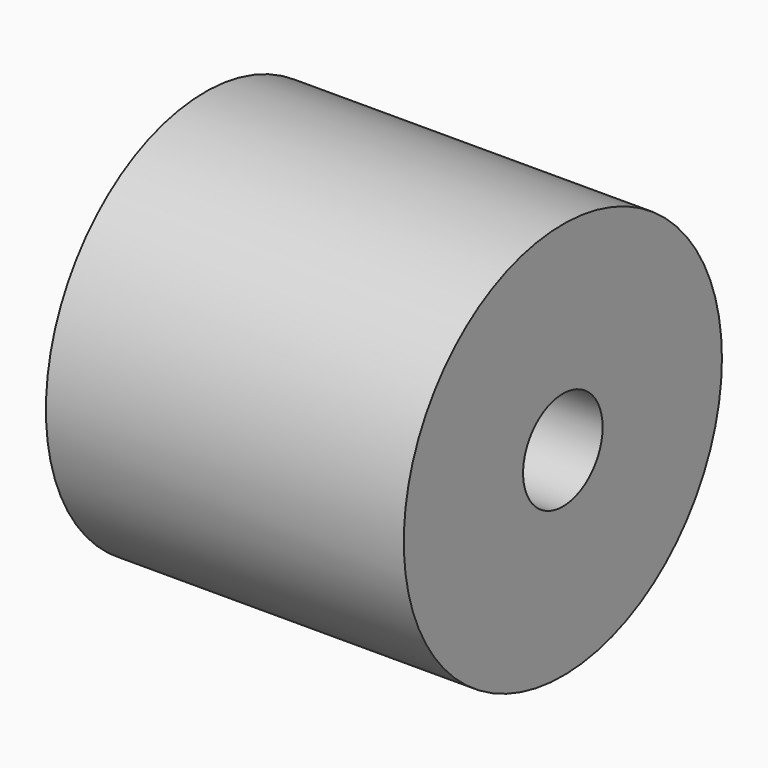
from build123d import *

# Parameters (mm, degrees)
SKETCH_R   = 10
SKETCH_R_2 = 2.5
PAD_DEPTH  = 18


with BuildPart() as part:
    # Sketch → Pad (new body)
    with BuildSketch(Plane.YZ):
        Circle(SKETCH_R)
        Circle(SKETCH_R_2, mode=Mode.SUBTRACT)
    extrude(amount=PAD_DEPTH)


solid = part.part
